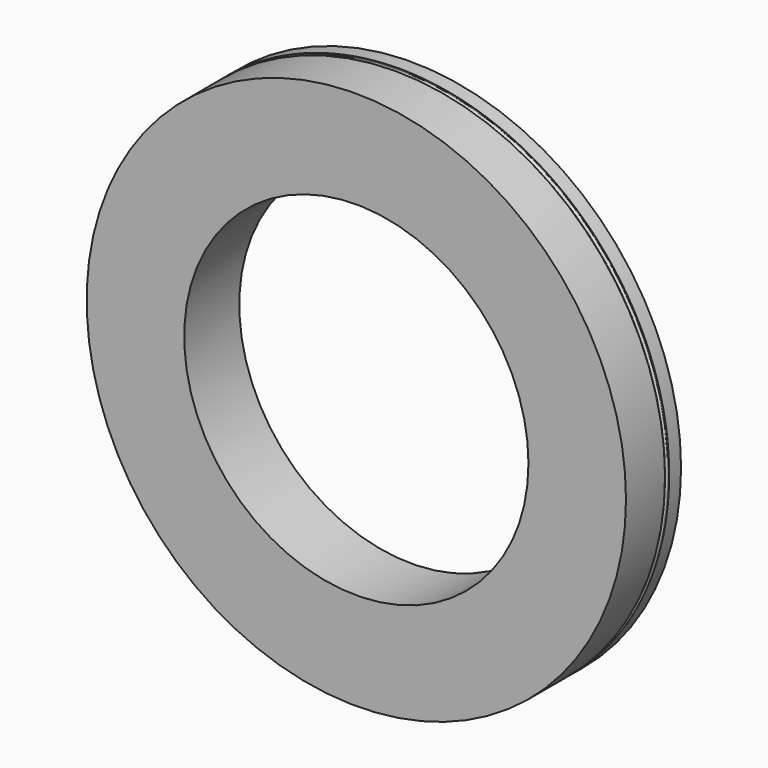
from build123d import *

# Parameters (mm, degrees)
F0_R     = 235
F0_R_2   = 150
F1_DEPTH = 60


with BuildPart() as f1:
    # F0 (on Front) → F1 (new body)
    with BuildSketch(Plane.XZ):
        Circle(F0_R)
        Circle(F0_R_2, mode=Mode.SUBTRACT)
    extrude(amount=F1_DEPTH)

    # F2 (on Right) → F3 (revolve, cut)
    with BuildSketch(Plane.YZ):
        with BuildLine():
            Line((-17.486282, 236.367822), (-17.452006, 234.98348))
            Line((-17.452006, 234.98348), (-18.446662, 233.260686))
            ThreePointArc((-18.446662, 233.260686), (-18.446662, 231.740686), (-17.130303, 230.980686))
            Line((-17.130303, 230.980686), (-15.217006, 230.980686))
            Line((-15.217006, 230.980686), (-13.303709, 230.980686))
            ThreePointArc((-13.303709, 230.980686), (-11.98735, 231.740686), (-11.98735, 233.260686))
            Line((-11.98735, 233.260686), (-12.982006, 234.98348))
            Line((-12.982006, 234.98348), (-12.982006, 236.367822))
            Line((-12.982006, 236.367822), (-17.486282, 236.367822))
        make_face()
    revolve(axis=Axis((0, -68.413801, 0), (0, -1, 0)), mode=Mode.SUBTRACT)


solid = f1.part
